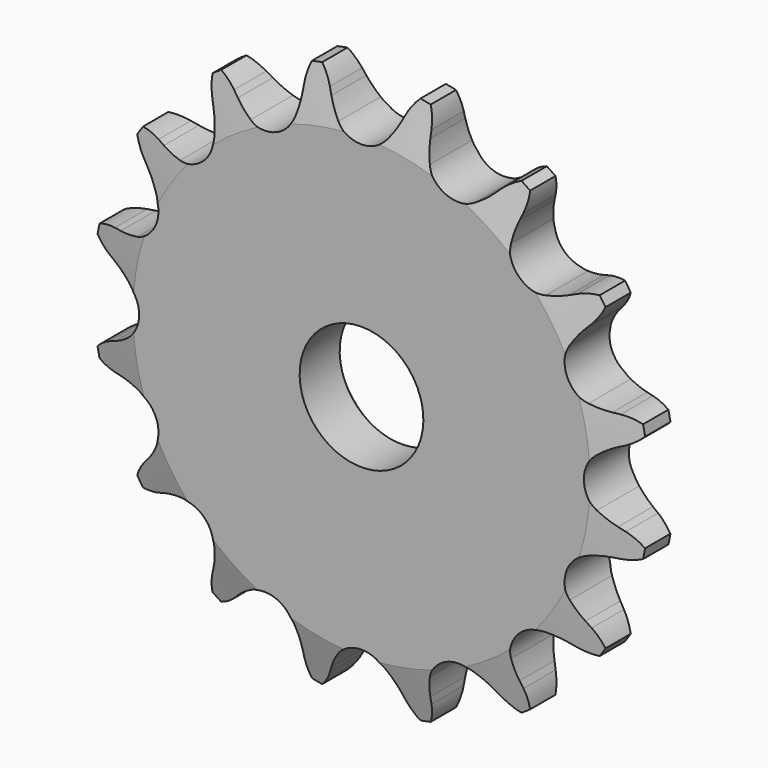
from build123d import *

# Parameters (mm, degrees)
F2_SIZE2 = 6.35
F2_SIZE  = 1.5748
F4_DEPTH = 7.2146
F5_SIZE  = 0.79375


with BuildPart() as f1:
    # F0 (on Right) → F1 (revolve)
    with BuildSketch(Plane.YZ):
        Polygon((7.2136, 35.687), (0, 35.687), (0, 7.9375), (7.2136, 7.9375), (7.2136, 25.4), align=None)
    revolve(axis=Axis((0, 3.6068, 0), (0, 1, 0)))

    # F2
    f2_edges = [f1.edges().sort_by_distance(p)[0] for p in [
        (0, 0, -35.687),
        (0, 7.2136, -35.687),
    ]]
    f2_side = f1.faces().sort_by_distance((0, 3.6068, -35.687))[0]
    chamfer(f2_edges, length=F2_SIZE, length2=F2_SIZE2, reference=f2_side)

    # F3 (on face) → F4 (intersect, through all)
    with BuildSketch(Plane.XZ):
        with BuildLine():
            ThreePointArc((-3.135378946, 30.0324223537), (-3.8892356196, 31.1040576592), (-4.5018259003, 32.2622611215))
            Line((-4.5018259003, 32.2622611215), (-4.8750905634, 33.0908779473))
            ThreePointArc((-4.8750905634, 33.0908779473), (-5.8139766931, 34.5945142721), (-7.119753928, 35.7934200962))
            ThreePointArc((-7.119753928, 35.7934200962), (-7.8673333934, 34.1860762298), (-8.1593343622, 32.4376012383))
            Line((-8.1593343622, 32.4376012383), (-8.1870880136, 31.5292169101))
            ThreePointArc((-8.1870880136, 31.5292169101), (-8.3098223594, 30.2247482855), (-8.5961980337, 28.9461979011))
            ThreePointArc((-8.5961980337, 28.9461979011), (-10.9173911885, 26.3569138731), (-14.3896229034, 26.5464827475))
            ThreePointArc((-14.3896229034, 26.5464827475), (-15.4961927315, 27.2480562132), (-16.5053776301, 28.0836685352))
            Line((-16.5053776301, 28.0836685352), (-17.1673271435, 28.7063684585))
            ThreePointArc((-17.1673271435, 28.7063684585), (-18.610161532, 29.7362511166), (-20.2753437891, 30.3441963547))
            ThreePointArc((-20.2753437891, 30.3441963547), (-20.3509132883, 28.5731179791), (-19.9515745957, 26.8459937882))
            Line((-19.9515745957, 26.8459937882), (-19.6295919936, 25.9961352373))
            ThreePointArc((-19.6295919936, 25.9961352373), (-19.243785213, 24.7439949735), (-19.0190817875, 23.4531772161))
            ThreePointArc((-19.0190817875, 23.4531772161), (-20.172708535, 20.172708535), (-23.4531772161, 19.0190817875))
            ThreePointArc((-23.4531772161, 19.0190817875), (-24.7439949735, 19.243785213), (-25.9961352373, 19.6295919936))
            Line((-25.9961352373, 19.6295919936), (-26.8459937882, 19.9515745957))
            ThreePointArc((-26.8459937882, 19.9515745957), (-28.5731179791, 20.3509132883), (-30.3441963547, 20.2753437891))
            ThreePointArc((-30.3441963547, 20.2753437891), (-29.7362511166, 18.610161532), (-28.7063684585, 17.1673271435))
            Line((-28.7063684585, 17.1673271435), (-28.0836685352, 16.5053776301))
            ThreePointArc((-28.0836685352, 16.5053776301), (-27.2480562132, 15.4961927315), (-26.5464827475, 14.3896229034))
            ThreePointArc((-26.5464827475, 14.3896229034), (-26.3569138731, 10.9173911885), (-28.9461979011, 8.5961980337))
            ThreePointArc((-28.9461979011, 8.5961980337), (-30.2247482855, 8.3098223594), (-31.5292169101, 8.1870880136))
            Line((-31.5292169101, 8.1870880136), (-32.4376012383, 8.1593343622))
            ThreePointArc((-32.4376012383, 8.1593343622), (-34.1860762298, 7.8673333934), (-35.7934200962, 7.119753928))
            ThreePointArc((-35.7934200962, 7.119753928), (-34.5945142721, 5.8139766931), (-33.0908779473, 4.8750905634))
            Line((-33.0908779473, 4.8750905634), (-32.2622611215, 4.5018259003))
            ThreePointArc((-32.2622611215, 4.5018259003), (-31.1040576592, 3.8892356196), (-30.0324223537, 3.135378946))
            ThreePointArc((-30.0324223537, 3.135378946), (-28.528518, 0), (-30.0324223537, -3.135378946))
            ThreePointArc((-30.0324223537, -3.135378946), (-31.1040576592, -3.8892356196), (-32.2622611215, -4.5018259003))
            Line((-32.2622611215, -4.5018259003), (-33.0908779473, -4.8750905634))
            ThreePointArc((-33.0908779473, -4.8750905634), (-34.5945142721, -5.8139766931), (-35.7934200962, -7.119753928))
            ThreePointArc((-35.7934200962, -7.119753928), (-34.1860762298, -7.8673333934), (-32.4376012383, -8.1593343622))
            Line((-32.4376012383, -8.1593343622), (-31.5292169101, -8.1870880136))
            ThreePointArc((-31.5292169101, -8.1870880136), (-30.2247482855, -8.3098223594), (-28.9461979011, -8.5961980337))
            ThreePointArc((-28.9461979011, -8.5961980337), (-26.3569138731, -10.9173911885), (-26.5464827475, -14.3896229034))
            ThreePointArc((-26.5464827475, -14.3896229034), (-27.2480562132, -15.4961927315), (-28.0836685352, -16.5053776301))
            Line((-28.0836685352, -16.5053776301), (-28.7063684585, -17.1673271435))
            ThreePointArc((-28.7063684585, -17.1673271435), (-29.7362511166, -18.610161532), (-30.3441963547, -20.2753437891))
            ThreePointArc((-30.3441963547, -20.2753437891), (-28.5731179791, -20.3509132883), (-26.8459937882, -19.9515745957))
            Line((-26.8459937882, -19.9515745957), (-25.9961352373, -19.6295919936))
            ThreePointArc((-25.9961352373, -19.6295919936), (-24.7439949735, -19.243785213), (-23.4531772161, -19.0190817875))
            ThreePointArc((-23.4531772161, -19.0190817875), (-20.172708535, -20.172708535), (-19.0190817875, -23.4531772161))
            ThreePointArc((-19.0190817875, -23.4531772161), (-19.243785213, -24.7439949735), (-19.6295919936, -25.9961352373))
            Line((-19.6295919936, -25.9961352373), (-19.9515745957, -26.8459937882))
            ThreePointArc((-19.9515745957, -26.8459937882), (-20.3509132883, -28.5731179791), (-20.2753437891, -30.3441963547))
            ThreePointArc((-20.2753437891, -30.3441963547), (-18.610161532, -29.7362511166), (-17.1673271435, -28.7063684585))
            Line((-17.1673271435, -28.7063684585), (-16.5053776301, -28.0836685352))
            ThreePointArc((-16.5053776301, -28.0836685352), (-15.4961927315, -27.2480562132), (-14.3896229034, -26.5464827475))
            ThreePointArc((-14.3896229034, -26.5464827475), (-10.9173911885, -26.3569138731), (-8.5961980337, -28.9461979011))
            ThreePointArc((-8.5961980337, -28.9461979011), (-8.3098223594, -30.2247482855), (-8.1870880136, -31.5292169101))
            Line((-8.1870880136, -31.5292169101), (-8.1593343622, -32.4376012383))
            ThreePointArc((-8.1593343622, -32.4376012383), (-7.8673333934, -34.1860762298), (-7.119753928, -35.7934200962))
            ThreePointArc((-7.119753928, -35.7934200962), (-5.8139766931, -34.5945142721), (-4.8750905634, -33.0908779473))
            Line((-4.8750905634, -33.0908779473), (-4.5018259003, -32.2622611215))
            ThreePointArc((-4.5018259003, -32.2622611215), (-3.8892356196, -31.1040576592), (-3.135378946, -30.0324223537))
            ThreePointArc((-3.135378946, -30.0324223537), (0, -28.528518), (3.135378946, -30.0324223537))
            ThreePointArc((3.135378946, -30.0324223537), (3.8892356196, -31.1040576592), (4.5018259003, -32.2622611215))
            Line((4.5018259003, -32.2622611215), (4.8750905634, -33.0908779473))
            ThreePointArc((4.8750905634, -33.0908779473), (5.8139766931, -34.5945142721), (7.119753928, -35.7934200962))
            ThreePointArc((7.119753928, -35.7934200962), (7.8673333934, -34.1860762298), (8.1593343622, -32.4376012383))
            Line((8.1593343622, -32.4376012383), (8.1870880136, -31.5292169101))
            ThreePointArc((8.1870880136, -31.5292169101), (8.3098223594, -30.2247482855), (8.5961980337, -28.9461979011))
            ThreePointArc((8.5961980337, -28.9461979011), (10.9173911885, -26.3569138731), (14.3896229034, -26.5464827475))
            ThreePointArc((14.3896229034, -26.5464827475), (15.4961927315, -27.2480562132), (16.5053776301, -28.0836685352))
            Line((16.5053776301, -28.0836685352), (17.1673271435, -28.7063684585))
            ThreePointArc((17.1673271435, -28.7063684585), (18.610161532, -29.7362511166), (20.2753437891, -30.3441963547))
            ThreePointArc((20.2753437891, -30.3441963547), (20.3509132883, -28.5731179791), (19.9515745957, -26.8459937882))
            Line((19.9515745957, -26.8459937882), (19.6295919936, -25.9961352373))
            ThreePointArc((19.6295919936, -25.9961352373), (19.243785213, -24.7439949735), (19.0190817875, -23.4531772161))
            ThreePointArc((19.0190817875, -23.4531772161), (20.172708535, -20.172708535), (23.4531772161, -19.0190817875))
            ThreePointArc((23.4531772161, -19.0190817875), (24.7439949735, -19.243785213), (25.9961352373, -19.6295919936))
            Line((25.9961352373, -19.6295919936), (26.8459937882, -19.9515745957))
            ThreePointArc((26.8459937882, -19.9515745957), (28.5731179791, -20.3509132883), (30.3441963547, -20.2753437891))
            ThreePointArc((30.3441963547, -20.2753437891), (29.7362511166, -18.610161532), (28.7063684585, -17.1673271435))
            Line((28.7063684585, -17.1673271435), (28.0836685352, -16.5053776301))
            ThreePointArc((28.0836685352, -16.5053776301), (27.2480562132, -15.4961927315), (26.5464827475, -14.3896229034))
            ThreePointArc((26.5464827475, -14.3896229034), (26.3569138731, -10.9173911885), (28.9461979011, -8.5961980337))
            ThreePointArc((28.9461979011, -8.5961980337), (30.2247482855, -8.3098223594), (31.5292169101, -8.1870880136))
            Line((31.5292169101, -8.1870880136), (32.4376012383, -8.1593343622))
            ThreePointArc((32.4376012383, -8.1593343622), (34.1860762298, -7.8673333934), (35.7934200962, -7.119753928))
            ThreePointArc((35.7934200962, -7.119753928), (34.5945142721, -5.8139766931), (33.0908779473, -4.8750905634))
            Line((33.0908779473, -4.8750905634), (32.2622611215, -4.5018259003))
            ThreePointArc((32.2622611215, -4.5018259003), (31.1040576592, -3.8892356196), (30.0324223537, -3.135378946))
            ThreePointArc((30.0324223537, -3.135378946), (28.528518, 0), (30.0324223537, 3.135378946))
            ThreePointArc((30.0324223537, 3.135378946), (31.1040576592, 3.8892356196), (32.2622611215, 4.5018259003))
            Line((32.2622611215, 4.5018259003), (33.0908779473, 4.8750905634))
            ThreePointArc((33.0908779473, 4.8750905634), (34.5945142721, 5.8139766931), (35.7934200962, 7.119753928))
            ThreePointArc((35.7934200962, 7.119753928), (34.1860762298, 7.8673333934), (32.4376012383, 8.1593343622))
            Line((32.4376012383, 8.1593343622), (31.5292169101, 8.1870880136))
            ThreePointArc((31.5292169101, 8.1870880136), (30.2247482855, 8.3098223594), (28.9461979011, 8.5961980337))
            ThreePointArc((28.9461979011, 8.5961980337), (26.3569138731, 10.9173911885), (26.5464827475, 14.3896229034))
            ThreePointArc((26.5464827475, 14.3896229034), (27.2480562132, 15.4961927315), (28.0836685352, 16.5053776301))
            Line((28.0836685352, 16.5053776301), (28.7063684585, 17.1673271435))
            ThreePointArc((28.7063684585, 17.1673271435), (29.7362511166, 18.610161532), (30.3441963547, 20.2753437891))
            ThreePointArc((30.3441963547, 20.2753437891), (28.5731179791, 20.3509132883), (26.8459937882, 19.9515745957))
            Line((26.8459937882, 19.9515745957), (25.9961352373, 19.6295919936))
            ThreePointArc((25.9961352373, 19.6295919936), (24.7439949735, 19.243785213), (23.4531772161, 19.0190817875))
            ThreePointArc((23.4531772161, 19.0190817875), (20.172708535, 20.172708535), (19.0190817875, 23.4531772161))
            ThreePointArc((19.0190817875, 23.4531772161), (19.243785213, 24.7439949735), (19.6295919936, 25.9961352373))
            Line((19.6295919936, 25.9961352373), (19.9515745957, 26.8459937882))
            ThreePointArc((19.9515745957, 26.8459937882), (20.3509132883, 28.5731179791), (20.2753437891, 30.3441963547))
            ThreePointArc((20.2753437891, 30.3441963547), (18.610161532, 29.7362511166), (17.1673271435, 28.7063684585))
            Line((17.1673271435, 28.7063684585), (16.5053776301, 28.0836685352))
            ThreePointArc((16.5053776301, 28.0836685352), (15.4961927315, 27.2480562132), (14.3896229034, 26.5464827475))
            ThreePointArc((14.3896229034, 26.5464827475), (10.9173911885, 26.3569138731), (8.5961980337, 28.9461979011))
            ThreePointArc((8.5961980337, 28.9461979011), (8.3098223594, 30.2247482855), (8.1870880136, 31.5292169101))
            Line((8.1870880136, 31.5292169101), (8.1593343622, 32.4376012383))
            ThreePointArc((8.1593343622, 32.4376012383), (7.8673333934, 34.1860762298), (7.119753928, 35.7934200962))
            ThreePointArc((7.119753928, 35.7934200962), (5.8139766931, 34.5945142721), (4.8750905634, 33.0908779473))
            Line((4.8750905634, 33.0908779473), (4.5018259003, 32.2622611215))
            ThreePointArc((4.5018259003, 32.2622611215), (3.8892356196, 31.1040576592), (3.135378946, 30.0324223537))
            ThreePointArc((3.135378946, 30.0324223537), (0, 28.528518), (-3.135378946, 30.0324223537))
        make_face()
    extrude(amount=-F4_DEPTH, mode=Mode.INTERSECT)

    # F5
    f5_edges = [f1.edges().sort_by_distance(p)[0] for p in [
        (0, 7.2136, -7.9375),
    ]]
    chamfer(f5_edges, length=F5_SIZE)


solid = f1.part
